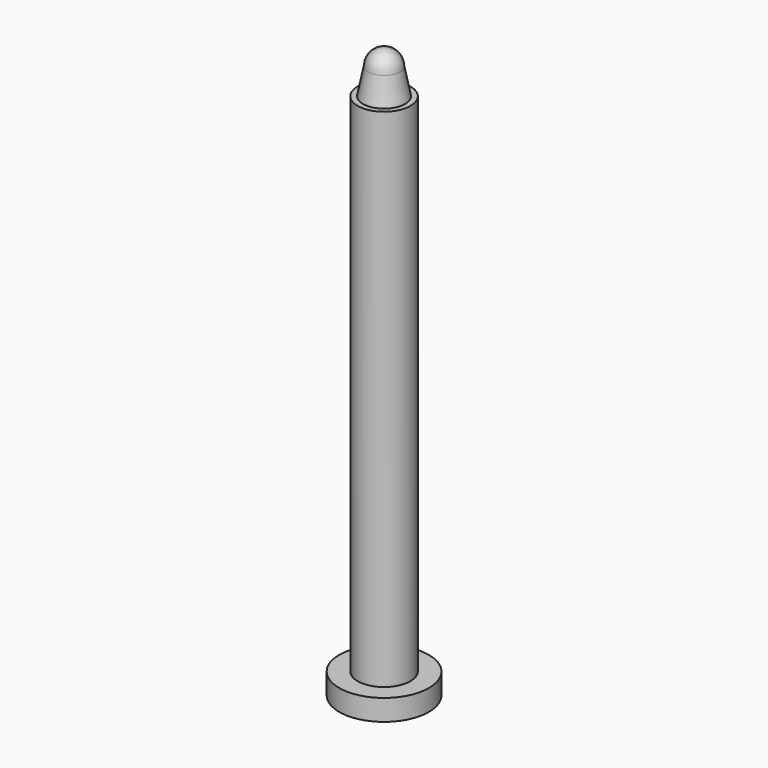
from build123d import *

# Parameters (mm, degrees)
F0_R     = 8.5
F1_DEPTH = 4
F2_R     = 5
F3_DEPTH = 100


with BuildPart() as f1:
    # F0 (on Top) → F1 (new body)
    with BuildSketch(Plane.XY):
        Circle(F0_R)
    extrude(amount=F1_DEPTH)

    # F2 (on Top) → F3 (join)
    with BuildSketch(Plane.XY):
        Circle(F2_R)
    extrude(amount=F3_DEPTH)

    # F4 (on Right) → F5 (revolve)
    with BuildSketch(Plane.YZ):
        Polygon((3, 105), (0, 105), (0, 100), (4, 100), align=None)
    revolve(axis=Axis((0, 0, 102.5), (0, 0, -1)))

    # F6 (on Right) → F7 (revolve)
    with BuildSketch(Plane.YZ):
        with BuildLine():
            ThreePointArc((3, 105), (2.12132, 107.12132), (0, 108))
            Line((0, 108), (0, 105))
            Line((0, 105), (3, 105))
        make_face()
    revolve(axis=Axis((0, 0, 106.5), (0, 0, -1)))


solid = f1.part
